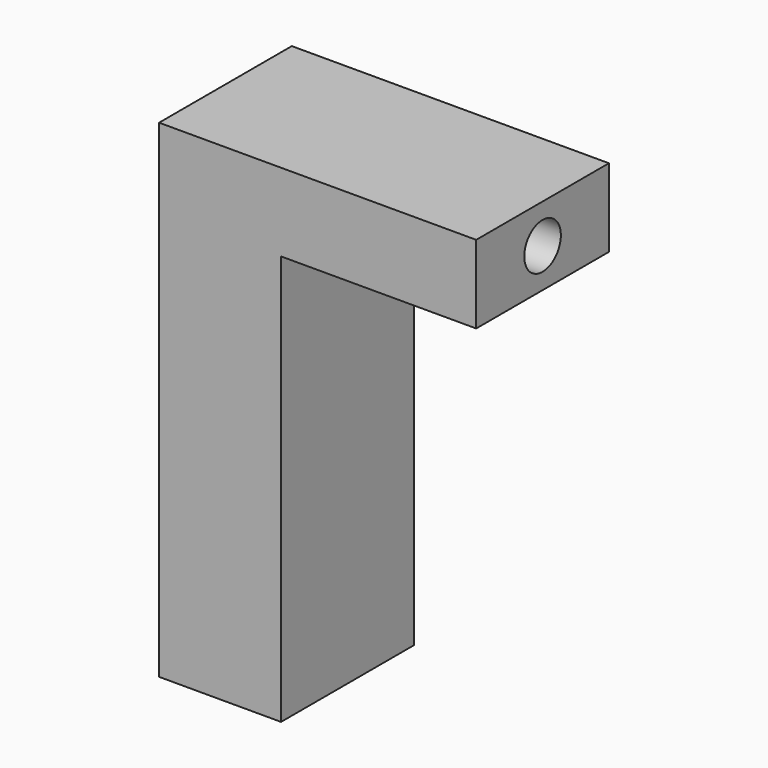
from build123d import *

# Parameters (mm, degrees)
F0_W     = 8.636
F0_H     = 25.4
F1_DEPTH = 6.35
F2_W     = 8.636
F2_H     = 4.064
F3_DEPTH = 10.16
F4_R     = 1.190625
F5_DEPTH = 16.511
F7_R     = 2.099945
F8_DEPTH = 5.08


with BuildPart() as f1:
    # F0 (on Right) → F1 (new body)
    with BuildSketch(Plane.YZ):
        with Locations((4.318, 12.7)):
            Rectangle(F0_W, F0_H)
    extrude(amount=F1_DEPTH)

    # F2 (on face) → F3 (join)
    with BuildSketch(Plane.YZ.offset(6.35)):
        with Locations((4.318, 23.368)):
            Rectangle(F2_W, F2_H)
    extrude(amount=F3_DEPTH)

    # F4 (on face) → F5 (cut, through all)
    with BuildSketch(Plane.YZ.offset(16.51)):
        with Locations((4.318, 23.368)):
            Circle(F4_R)
    extrude(amount=-F5_DEPTH, mode=Mode.SUBTRACT)

    # F7 (on face) → F8 (cut)
    with BuildSketch(Plane(origin=(0, 0, 0), x_dir=(0, -1, 0), z_dir=(-1, 0, 0))):
        with Locations((-4.315846, 22.864808)):
            Circle(F7_R)
    extrude(amount=-F8_DEPTH, mode=Mode.SUBTRACT)


solid = f1.part
